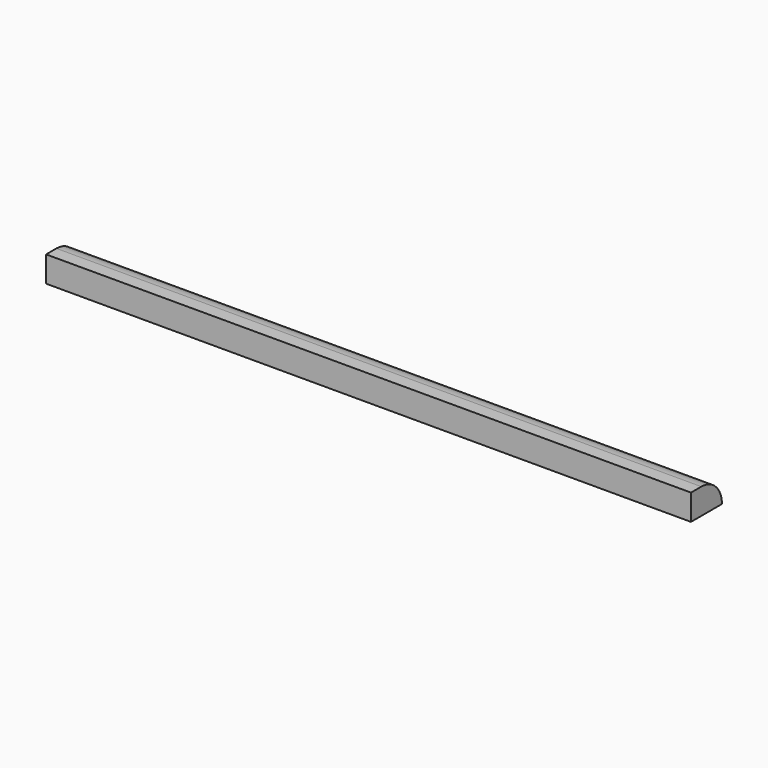
from build123d import *

# Parameters (mm, degrees)
F1_DEPTH = 635


with BuildPart() as f1:
    # F0 (on Right) → F1 (new body)
    with BuildSketch(Plane.YZ):
        with BuildLine():
            Line((0, 25.4), (0, 0))
            Line((0, 0), (38.1, 0))
            ThreePointArc((38.1, 0), (30.660512, 17.960512), (12.7, 25.4))
            Line((12.7, 25.4), (0, 25.4))
        make_face()
    extrude(amount=-F1_DEPTH)


solid = f1.part
